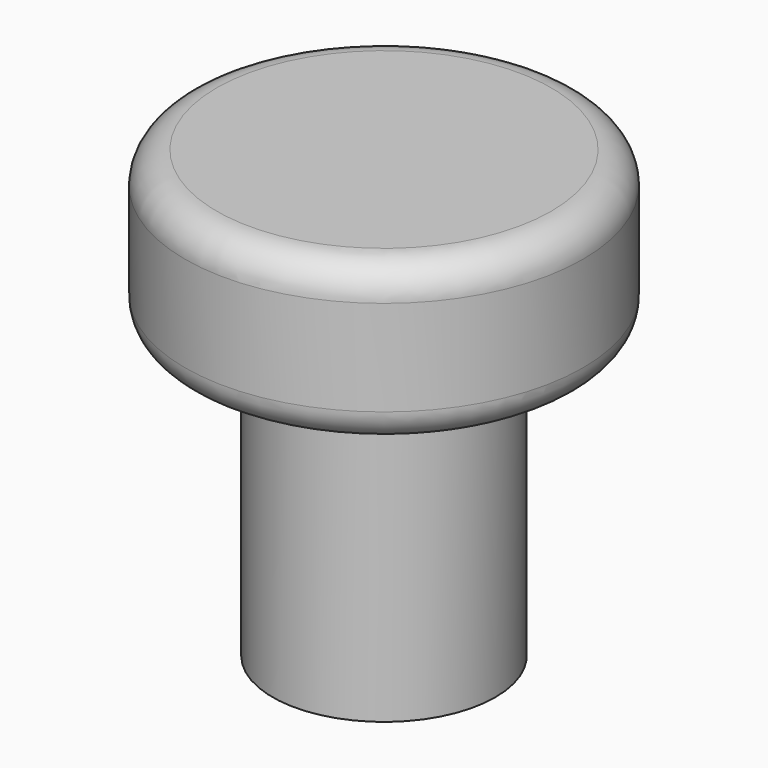
from build123d import *

# Parameters (mm, degrees)
F0_R     = 15.875
F1_DEPTH = 12.7
F2_R     = 2.54
F3_R     = 8.89
F4_DEPTH = 22.86


with BuildPart() as f1:
    # F0 (on Top) → F1 (new body)
    with BuildSketch(Plane.XY):
        Circle(F0_R)
    extrude(amount=F1_DEPTH)

    # F2
    f2_edges = [f1.edges().sort_by_distance(p)[0] for p in [
        (-15.875, 0, 12.7),
        (15.875, 0, 6.35),
        (-15.875, 0, 0),
    ]]
    fillet(f2_edges, radius=F2_R)

    # F3 (on Top) → F4 (join)
    with BuildSketch(Plane.XY):
        Circle(F3_R)
    extrude(amount=-F4_DEPTH)


solid = f1.part
